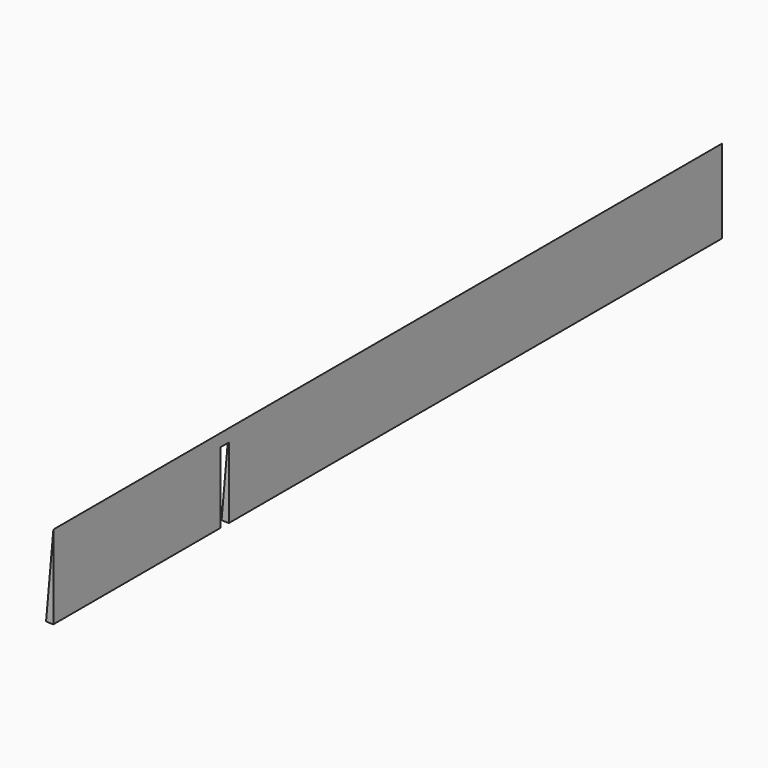
from build123d import *

# Parameters (mm, degrees)
F0_R     = 200
F1_DEPTH = 2000
F3_R     = 377.245837
F3_W     = 300
F3_H     = 60
F4_DEPTH = 25
F6_DEPTH = 2000


with BuildPart() as f1:
    # F0 (on Front) → F1 (new body)
    with BuildSketch(Plane.XZ):
        Circle(F0_R)
    extrude(amount=F1_DEPTH)

    # F3 (on offset) → F4 (cut)
    with BuildSketch(Plane.XZ.offset(1500)):
        Circle(F3_R)
        Rectangle(F3_W, F3_H, mode=Mode.SUBTRACT)
    extrude(amount=-F4_DEPTH, mode=Mode.SUBTRACT)

    # F5 (on face) → F6 (intersect)
    with BuildSketch(Plane.XZ.offset(2000)):
        with BuildLine():
            Line((0, -200), (0, 0))
            Line((0, 0), (-17.431149, -199.23894))
            ThreePointArc((-17.431149, -199.23894), (-8.723877, -199.809644), (0, -200))
        make_face()
    extrude(amount=-F6_DEPTH, mode=Mode.INTERSECT)


solid = f1.part
